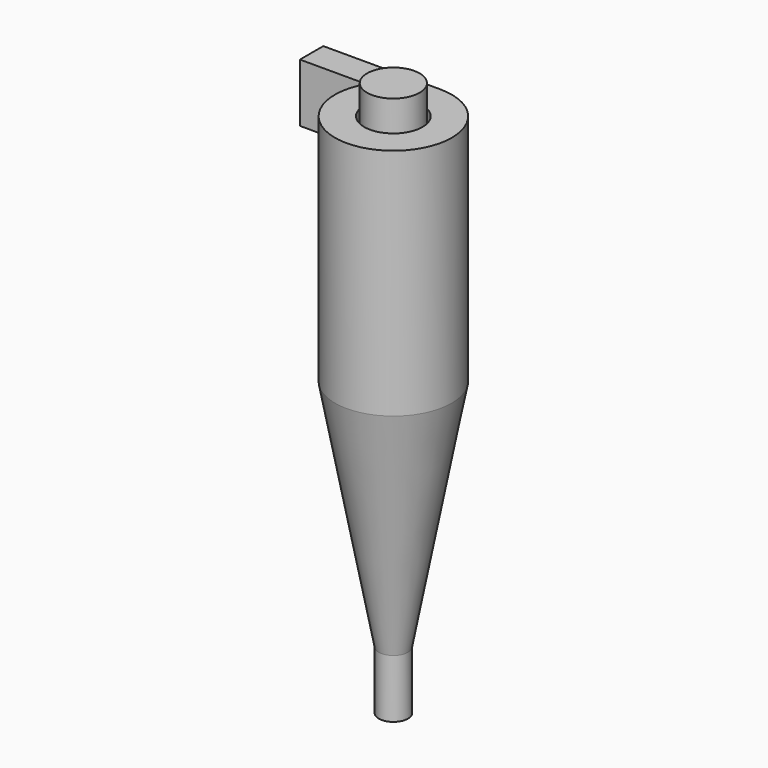
from build123d import *

# Parameters (mm, degrees)
F0_R      = 40
F1_DEPTH  = 160
F3_R      = 10
F1_FACE_R = 40
F5_DEPTH  = 40
F6_W      = 80
F6_H      = 20
F7_DEPTH  = 40
F8_R      = 18
F9_DEPTH  = 20
F10_R     = 20
F10_R_2   = 18
F11_DEPTH = 50


with BuildPart() as f1:
    # F0 (on Top) → F1 (new body)
    with BuildSketch(Plane.XY):
        Circle(F0_R)
    extrude(amount=-F1_DEPTH)

    # F3 (on offset) → F4 section 0
    with BuildSketch(Plane(origin=(0, 0, -320), x_dir=(1, 0, 0), z_dir=(0, 0, -1))):
        Circle(F3_R)
    # F1_face (on face) → F4 section 1
    with BuildSketch(Plane(origin=(0, 0, -160), x_dir=(1, 0, 0), z_dir=(0, 0, -1))):
        Circle(F1_FACE_R)
    loft()

    # F5 (add): a face of the model
    f5_faces = [f1.faces().sort_by_distance(p)[0] for p in [
        (0, 0, -320),
    ]]
    extrude(f5_faces, amount=F5_DEPTH)

    # F6 (on Top) → F7 (join)
    with BuildSketch(Plane.XY):
        with Locations((-40, 30)):
            Rectangle(F6_W, F6_H)
    extrude(amount=-F7_DEPTH)

    # F8 (on face) → F9 (join)
    with BuildSketch(Plane.XY):
        Circle(F8_R)
    extrude(amount=F9_DEPTH)

    # F10 (on face) → F11 (cut)
    with BuildSketch(Plane.XY):
        Circle(F10_R)
        Circle(F10_R_2, mode=Mode.SUBTRACT)
    extrude(amount=-F11_DEPTH, mode=Mode.SUBTRACT)


solid = f1.part
